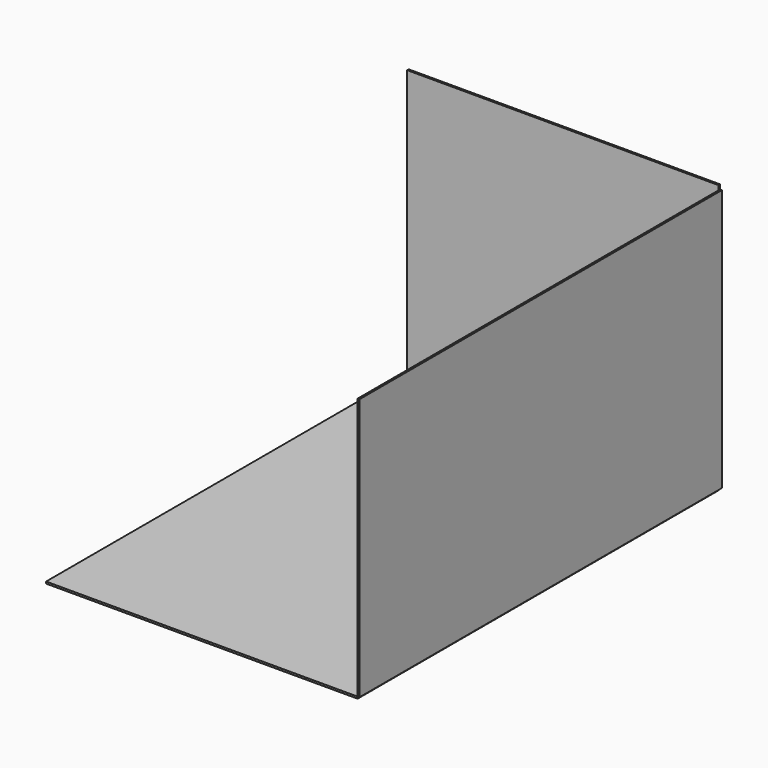
from build123d import *

# Parameters (mm, degrees)
F0_W     = 42.2506034374
F0_H     = 61.2134709954
F1_DEPTH = 0.254
F2_W     = 42.2506034374
F2_H     = 36.1739821515
F3_DEPTH = 0.254
F4_W     = 61.4502783865
F4_H     = 35.5782709799
F5_DEPTH = 0.254


with BuildPart() as f1:
    # F0 (on Top) → F1 (new body)
    with BuildSketch(Plane.XY):
        Rectangle(F0_W, F0_H)
    extrude(amount=F1_DEPTH)



with BuildPart() as f3:
    # F2 (on face) → F3 (new body)
    with BuildSketch(Plane(origin=(0, 30.6067354977, 0), x_dir=(-1, 0, 0), z_dir=(0, 1, 0))):
        with Locations((0, 18.3409910758)):
            Rectangle(F2_W, F2_H)
    extrude(amount=F3_DEPTH)


with BuildPart() as f1_1:
    add(f1.part)

    add(f3.part)  # F5 merges F3
    # F4 (on face) → F5 (join)
    with BuildSketch(Plane.YZ.offset(21.1253017187)):
        with Locations((0.1184036955, 18.0431354899)):
            Rectangle(F4_W, F4_H)
    extrude(amount=F5_DEPTH)


solid = f1_1.part
